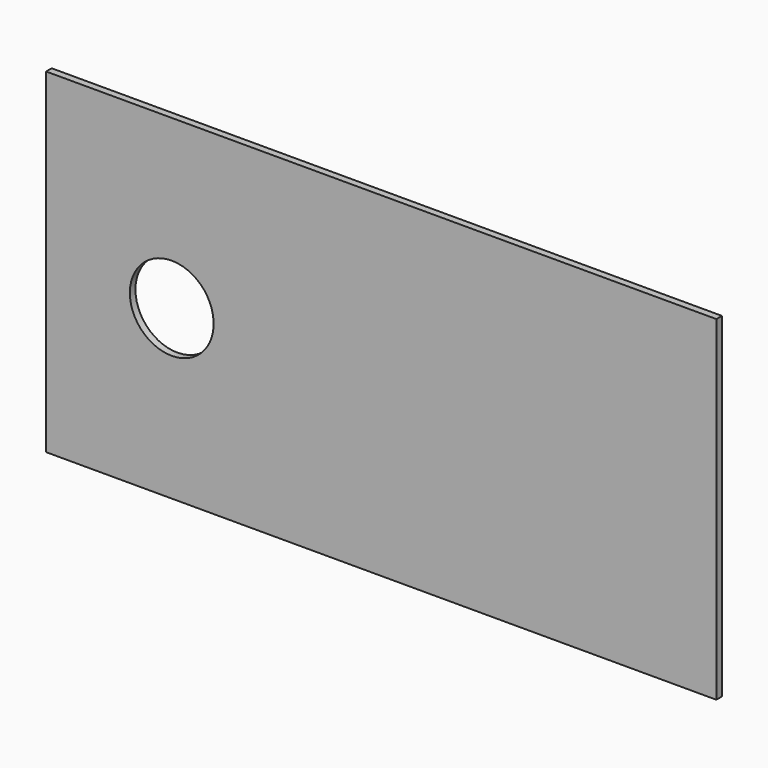
from build123d import *

# Parameters (mm, degrees)
F0_W     = 1219.2
F0_H     = 609.6
F1_DEPTH = 12.7
F3_D     = 152.4


with BuildPart() as f1:
    # F0 (on Front) → F1 (new body)
    with BuildSketch(Plane.XZ):
        Rectangle(F0_W, F0_H)
    extrude(amount=F1_DEPTH)

    # F3 (through all)
    with Locations(Plane.XZ.offset(12.7)):
        with Locations((-381, 0)):
            Hole(F3_D / 2)


solid = f1.part
